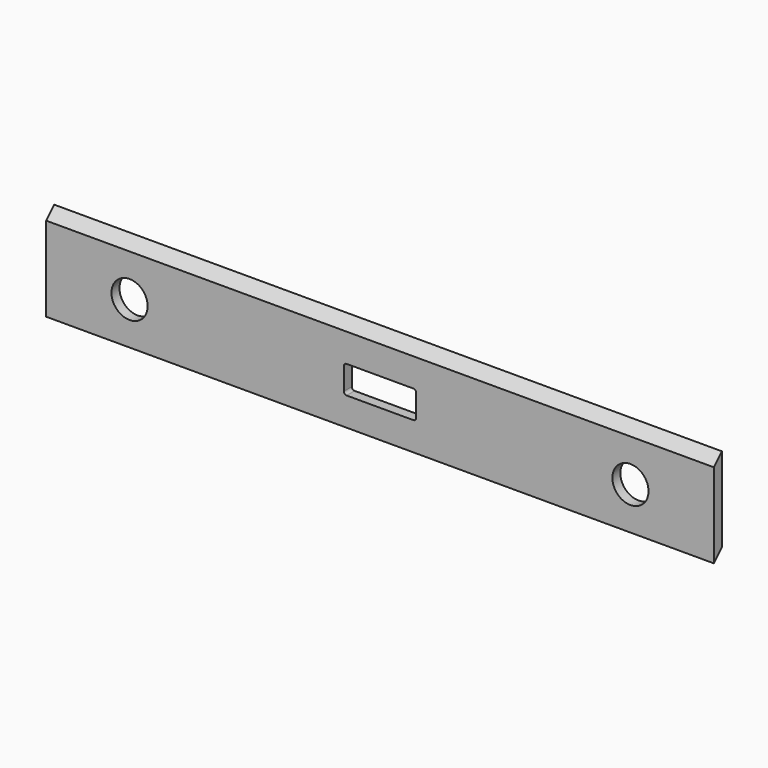
from build123d import *

# Parameters (mm, degrees)
F0_W     = 1200
F0_H     = 170
F1_DEPTH = 18
F3_DEPTH = 1200.001
F4_R     = 32.5
F5_DEPTH = 18.001


with BuildPart() as f1:
    # F0 (on Front) → F1 (new body)
    with BuildSketch(Plane.XZ):
        with Locations((600, 85)):
            Rectangle(F0_W, F0_H)
    extrude(amount=F1_DEPTH)

    # F2 (on face) → F3 (cut, through all)
    with BuildSketch(Plane.YZ.offset(1200)):
        Polygon((-18, 152), (0, 170), (-18, 170), align=None)
        Polygon((-18, 0), (0, 0), (0, 18), align=None)
    extrude(amount=-F3_DEPTH, mode=Mode.SUBTRACT)

    # F4 (on face) → F5 (cut, through all)
    with BuildSketch(Plane.XZ.offset(18)):
        with Locations((150, 76)):
            Circle(F4_R)
        with Locations((1050, 76)):
            Circle(F4_R)
        with BuildLine():
            Line((540, 51), (660, 51))
            ThreePointArc((660, 51), (663.535534, 52.464466), (665, 56))
            Line((665, 56), (665, 96))
            ThreePointArc((665, 96), (663.535534, 99.535534), (660, 101))
            Line((660, 101), (540, 101))
            ThreePointArc((540, 101), (536.464466, 99.535534), (535, 96))
            Line((535, 96), (535, 56))
            ThreePointArc((535, 56), (536.464466, 52.464466), (540, 51))
        make_face()
    extrude(amount=-F5_DEPTH, mode=Mode.SUBTRACT)


solid = f1.part
